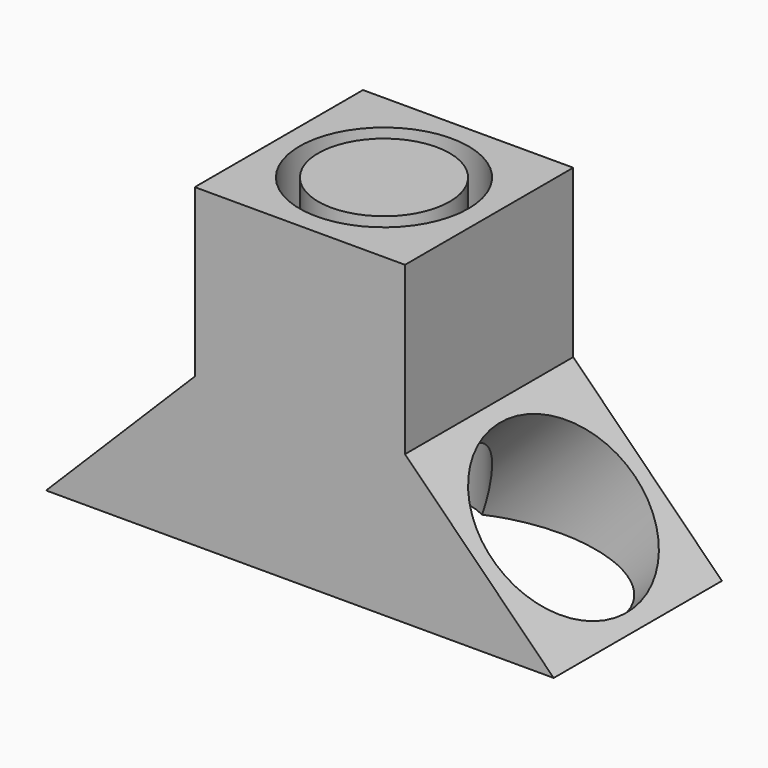
from build123d import *

# Parameters (mm, degrees)
F0_W      = 40
F0_H      = 40
F1_DEPTH  = 60
F2_W      = 40
F2_H      = 28.284
F3_DEPTH  = 28.284
F4_W      = 40
F4_H      = 28.284
F5_DEPTH  = 28.284
F7_DEPTH  = 40.001
F8_R      = 16.066492
F8_R_2    = 12.5
F9_DEPTH  = 60.001
F10_R     = 17
F11_DEPTH = 68.284888


with BuildPart() as f1:
    # F0 (on Top) → F1 (new body)
    with BuildSketch(Plane.XY):
        with Locations((-1.693472, 27.266839)):
            Rectangle(F0_W, F0_H)
    extrude(amount=F1_DEPTH)

    # F2 (on face) → F3 (join)
    with BuildSketch(Plane.YZ.offset(18.306528)):
        with Locations((27.266839, 14.142)):
            Rectangle(F2_W, F2_H)
    extrude(amount=F3_DEPTH)

    # F4 (on face) → F5 (join)
    with BuildSketch(Plane(origin=(-21.693472, 0, 0), x_dir=(0, -1, 0), z_dir=(-1, 0, 0))):
        with Locations((-27.266839, 14.142)):
            Rectangle(F4_W, F4_H)
    extrude(amount=F5_DEPTH)

    # F6 (on face) → F7 (cut, through all)
    with BuildSketch(Plane.XZ.offset(-7.266839)):
        Polygon((-49.977472, 0), (-21.693472, 28.284), (-49.977472, 28.284), align=None)
        Polygon((18.306528, 28.284), (46.590528, 0), (46.590528, 28.284), align=None)
    extrude(amount=-F7_DEPTH, mode=Mode.SUBTRACT)

    # F8 (on face) → F9 (cut, through all)
    with BuildSketch(Plane.XY.offset(60)):
        with Locations((-1.693472, 27.266839)):
            Circle(F8_R)
        with Locations((-1.693472, 27.266839)):
            Circle(F8_R_2, mode=Mode.SUBTRACT)
    extrude(amount=-F9_DEPTH, mode=Mode.SUBTRACT)

    # F10 (on face) → F11 (cut, through all)
    with BuildSketch(Plane(origin=(23.295264, 0, 23.295264), x_dir=(0, 1, 0), z_dir=(0.707107, 0, 0.707107))):
        with Locations((27.266839, -12.94467)):
            Circle(F10_R)
    extrude(amount=-F11_DEPTH, mode=Mode.SUBTRACT)


solid = f1.part
